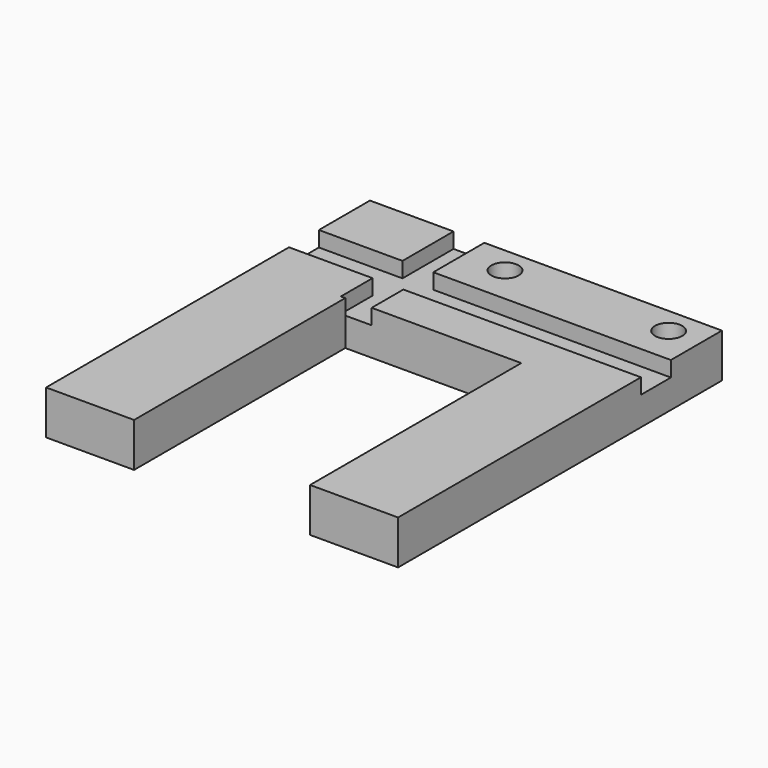
from build123d import *

# Parameters (mm, degrees)
F0_W     = 9.5
F0_H     = 7.25
F0_W_2   = 27
F0_R     = 1.55
F1_DEPTH = 5
F2_DEPTH = 3.25


with BuildPart() as f1:
    # F0 (on Top) → F1 (new body)
    with BuildSketch(Plane.XY):
        Polygon((-10.5, 4.5), (-20, 4.5), (-20, -30), (-10, -30), (-10, 0), (-10.5, 0), align=None)
        with Locations((-15.25, 12.375)):
            Rectangle(F0_W, F0_H)
        with Locations((6.5, 12.375)):
            Rectangle(F0_W_2, F0_H)
        with Locations((-2.25, 13)):
            Circle(F0_R, mode=Mode.SUBTRACT)
        with Locations((16.346153, 13)):
            Circle(F0_R, mode=Mode.SUBTRACT)
        Polygon((20, -30), (20, 4.5), (-7, 4.5), (-7, 0), (10, 0), (10, -30), align=None)
    extrude(amount=F1_DEPTH)

    # F0 (on Top) → F2 (join)
    with BuildSketch(Plane.XY):
        Polygon((-10.5, 8.75), (-20, 8.75), (-20, 4.5), (-10.5, 4.5), (-10.5, 0), (-10, 0), (-7, 0), (-7, 4.5), (20, 4.5), (20, 8.75), (-7, 8.75), (-7, 16), (-10.5, 16), align=None)
    extrude(amount=F2_DEPTH)


solid = f1.part
